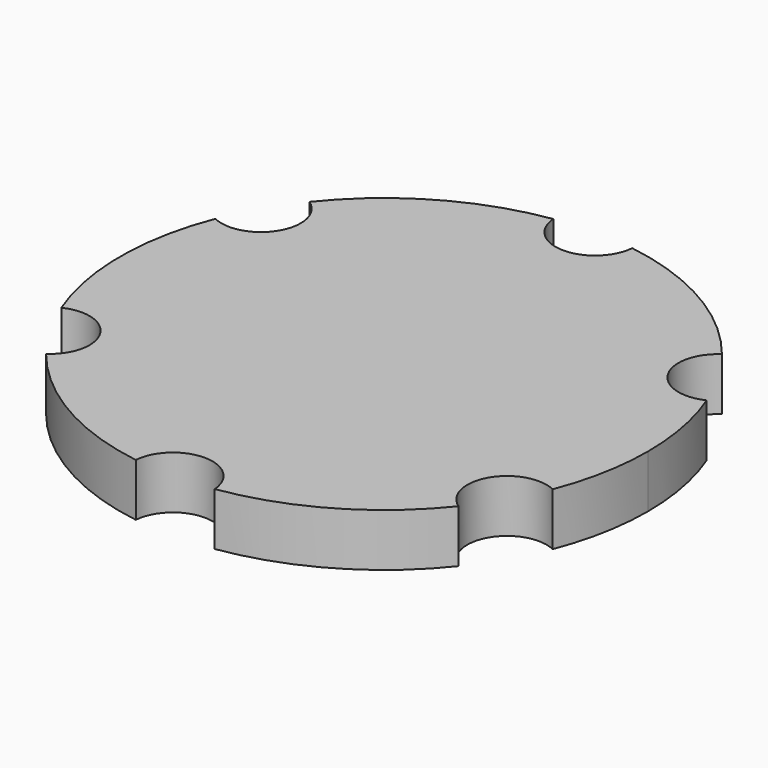
from build123d import *

# Parameters (mm, degrees)
F1_DEPTH = 10


with BuildPart() as f1:
    # F0 (on Top) → F1 (new body)
    with BuildSketch(Plane.XY):
        with BuildLine():
            ThreePointArc((46.5535691512, -18.2418529565), (49.1308378595, -9.2822826514), (50, 0))
            ThreePointArc((50, 0), (49.1308378595, 9.2822826514), (46.5535691512, 18.2418529565))
            ThreePointArc((46.5535691512, 18.2418529565), (36.8060796608, 21.25), (39.074692648, 31.1956470435))
            ThreePointArc((39.074692648, 31.1956470435), (25, 43.3012701892), (7.4788765032, 49.4375))
            ThreePointArc((7.4788765032, 49.4375), (0, 42.5), (-7.4788765032, 49.4375))
            ThreePointArc((-7.4788765032, 49.4375), (-25, 43.3012701892), (-39.074692648, 31.1956470435))
            ThreePointArc((-39.074692648, 31.1956470435), (-36.6699305222, 28.5036173051), (-35.8012701892, 25))
            ThreePointArc((-35.8012701892, 25), (-39.310170229, 18.6501085752), (-46.5535691512, 18.2418529565))
            ThreePointArc((-46.5535691512, 18.2418529565), (-50, 0), (-46.5535691512, -18.2418529565))
            ThreePointArc((-46.5535691512, -18.2418529565), (-39.310170229, -18.6501085752), (-35.8012701892, -25))
            ThreePointArc((-35.8012701892, -25), (-36.6699305222, -28.5036173051), (-39.074692648, -31.1956470435))
            ThreePointArc((-39.074692648, -31.1956470435), (-25, -43.3012701892), (-7.4788765032, -49.4375))
            ThreePointArc((-7.4788765032, -49.4375), (0, -42.5), (7.4788765032, -49.4375))
            ThreePointArc((7.4788765032, -49.4375), (25, -43.3012701892), (39.074692648, -31.1956470435))
            ThreePointArc((39.074692648, -31.1956470435), (36.8060796608, -21.25), (46.5535691512, -18.2418529565))
        make_face()
        with BuildLine():
            ThreePointArc((46.5535691512, -18.2418529565), (49.1308378595, -9.2822826514), (50, 0))
            ThreePointArc((50, 0), (49.1308378595, 9.2822826514), (46.5535691512, 18.2418529565))
            ThreePointArc((46.5535691512, 18.2418529565), (36.8060796608, 21.25), (39.074692648, 31.1956470435))
            ThreePointArc((39.074692648, 31.1956470435), (25, 43.3012701892), (7.4788765032, 49.4375))
            ThreePointArc((7.4788765032, 49.4375), (0, 42.5), (-7.4788765032, 49.4375))
            ThreePointArc((-7.4788765032, 49.4375), (-25, 43.3012701892), (-39.074692648, 31.1956470435))
            ThreePointArc((-39.074692648, 31.1956470435), (-36.6699305222, 28.5036173051), (-35.8012701892, 25))
            ThreePointArc((-35.8012701892, 25), (-39.310170229, 18.6501085752), (-46.5535691512, 18.2418529565))
            ThreePointArc((-46.5535691512, 18.2418529565), (-50, 0), (-46.5535691512, -18.2418529565))
            ThreePointArc((-46.5535691512, -18.2418529565), (-39.310170229, -18.6501085752), (-35.8012701892, -25))
            ThreePointArc((-35.8012701892, -25), (-36.6699305222, -28.5036173051), (-39.074692648, -31.1956470435))
            ThreePointArc((-39.074692648, -31.1956470435), (-25, -43.3012701892), (-7.4788765032, -49.4375))
            ThreePointArc((-7.4788765032, -49.4375), (0, -42.5), (7.4788765032, -49.4375))
            ThreePointArc((7.4788765032, -49.4375), (25, -43.3012701892), (39.074692648, -31.1956470435))
            ThreePointArc((39.074692648, -31.1956470435), (36.8060796608, -21.25), (46.5535691512, -18.2418529565))
        make_face()
        with BuildLine():
            ThreePointArc((46.5535691512, -18.2418529565), (49.1308378595, -9.2822826514), (50, 0))
            ThreePointArc((50, 0), (49.1308378595, 9.2822826514), (46.5535691512, 18.2418529565))
            ThreePointArc((46.5535691512, 18.2418529565), (36.8060796608, 21.25), (39.074692648, 31.1956470435))
            ThreePointArc((39.074692648, 31.1956470435), (25, 43.3012701892), (7.4788765032, 49.4375))
            ThreePointArc((7.4788765032, 49.4375), (0, 42.5), (-7.4788765032, 49.4375))
            ThreePointArc((-7.4788765032, 49.4375), (-25, 43.3012701892), (-39.074692648, 31.1956470435))
            ThreePointArc((-39.074692648, 31.1956470435), (-36.6699305222, 28.5036173051), (-35.8012701892, 25))
            ThreePointArc((-35.8012701892, 25), (-39.310170229, 18.6501085752), (-46.5535691512, 18.2418529565))
            ThreePointArc((-46.5535691512, 18.2418529565), (-50, 0), (-46.5535691512, -18.2418529565))
            ThreePointArc((-46.5535691512, -18.2418529565), (-39.310170229, -18.6501085752), (-35.8012701892, -25))
            ThreePointArc((-35.8012701892, -25), (-36.6699305222, -28.5036173051), (-39.074692648, -31.1956470435))
            ThreePointArc((-39.074692648, -31.1956470435), (-25, -43.3012701892), (-7.4788765032, -49.4375))
            ThreePointArc((-7.4788765032, -49.4375), (0, -42.5), (7.4788765032, -49.4375))
            ThreePointArc((7.4788765032, -49.4375), (25, -43.3012701892), (39.074692648, -31.1956470435))
            ThreePointArc((39.074692648, -31.1956470435), (36.8060796608, -21.25), (46.5535691512, -18.2418529565))
        make_face()
        with BuildLine():
            ThreePointArc((46.5535691512, -18.2418529565), (49.1308378595, -9.2822826514), (50, 0))
            ThreePointArc((50, 0), (49.1308378595, 9.2822826514), (46.5535691512, 18.2418529565))
            ThreePointArc((46.5535691512, 18.2418529565), (36.8060796608, 21.25), (39.074692648, 31.1956470435))
            ThreePointArc((39.074692648, 31.1956470435), (25, 43.3012701892), (7.4788765032, 49.4375))
            ThreePointArc((7.4788765032, 49.4375), (0, 42.5), (-7.4788765032, 49.4375))
            ThreePointArc((-7.4788765032, 49.4375), (-25, 43.3012701892), (-39.074692648, 31.1956470435))
            ThreePointArc((-39.074692648, 31.1956470435), (-36.6699305222, 28.5036173051), (-35.8012701892, 25))
            ThreePointArc((-35.8012701892, 25), (-39.310170229, 18.6501085752), (-46.5535691512, 18.2418529565))
            ThreePointArc((-46.5535691512, 18.2418529565), (-50, 0), (-46.5535691512, -18.2418529565))
            ThreePointArc((-46.5535691512, -18.2418529565), (-39.310170229, -18.6501085752), (-35.8012701892, -25))
            ThreePointArc((-35.8012701892, -25), (-36.6699305222, -28.5036173051), (-39.074692648, -31.1956470435))
            ThreePointArc((-39.074692648, -31.1956470435), (-25, -43.3012701892), (-7.4788765032, -49.4375))
            ThreePointArc((-7.4788765032, -49.4375), (0, -42.5), (7.4788765032, -49.4375))
            ThreePointArc((7.4788765032, -49.4375), (25, -43.3012701892), (39.074692648, -31.1956470435))
            ThreePointArc((39.074692648, -31.1956470435), (36.8060796608, -21.25), (46.5535691512, -18.2418529565))
        make_face()
        with BuildLine():
            ThreePointArc((46.5535691512, -18.2418529565), (49.1308378595, -9.2822826514), (50, 0))
            ThreePointArc((50, 0), (49.1308378595, 9.2822826514), (46.5535691512, 18.2418529565))
            ThreePointArc((46.5535691512, 18.2418529565), (36.8060796608, 21.25), (39.074692648, 31.1956470435))
            ThreePointArc((39.074692648, 31.1956470435), (25, 43.3012701892), (7.4788765032, 49.4375))
            ThreePointArc((7.4788765032, 49.4375), (0, 42.5), (-7.4788765032, 49.4375))
            ThreePointArc((-7.4788765032, 49.4375), (-25, 43.3012701892), (-39.074692648, 31.1956470435))
            ThreePointArc((-39.074692648, 31.1956470435), (-36.6699305222, 28.5036173051), (-35.8012701892, 25))
            ThreePointArc((-35.8012701892, 25), (-39.310170229, 18.6501085752), (-46.5535691512, 18.2418529565))
            ThreePointArc((-46.5535691512, 18.2418529565), (-50, 0), (-46.5535691512, -18.2418529565))
            ThreePointArc((-46.5535691512, -18.2418529565), (-39.310170229, -18.6501085752), (-35.8012701892, -25))
            ThreePointArc((-35.8012701892, -25), (-36.6699305222, -28.5036173051), (-39.074692648, -31.1956470435))
            ThreePointArc((-39.074692648, -31.1956470435), (-25, -43.3012701892), (-7.4788765032, -49.4375))
            ThreePointArc((-7.4788765032, -49.4375), (0, -42.5), (7.4788765032, -49.4375))
            ThreePointArc((7.4788765032, -49.4375), (25, -43.3012701892), (39.074692648, -31.1956470435))
            ThreePointArc((39.074692648, -31.1956470435), (36.8060796608, -21.25), (46.5535691512, -18.2418529565))
        make_face()
        with BuildLine():
            ThreePointArc((46.5535691512, -18.2418529565), (49.1308378595, -9.2822826514), (50, 0))
            ThreePointArc((50, 0), (49.1308378595, 9.2822826514), (46.5535691512, 18.2418529565))
            ThreePointArc((46.5535691512, 18.2418529565), (36.8060796608, 21.25), (39.074692648, 31.1956470435))
            ThreePointArc((39.074692648, 31.1956470435), (25, 43.3012701892), (7.4788765032, 49.4375))
            ThreePointArc((7.4788765032, 49.4375), (0, 42.5), (-7.4788765032, 49.4375))
            ThreePointArc((-7.4788765032, 49.4375), (-25, 43.3012701892), (-39.074692648, 31.1956470435))
            ThreePointArc((-39.074692648, 31.1956470435), (-36.6699305222, 28.5036173051), (-35.8012701892, 25))
            ThreePointArc((-35.8012701892, 25), (-39.310170229, 18.6501085752), (-46.5535691512, 18.2418529565))
            ThreePointArc((-46.5535691512, 18.2418529565), (-50, 0), (-46.5535691512, -18.2418529565))
            ThreePointArc((-46.5535691512, -18.2418529565), (-39.310170229, -18.6501085752), (-35.8012701892, -25))
            ThreePointArc((-35.8012701892, -25), (-36.6699305222, -28.5036173051), (-39.074692648, -31.1956470435))
            ThreePointArc((-39.074692648, -31.1956470435), (-25, -43.3012701892), (-7.4788765032, -49.4375))
            ThreePointArc((-7.4788765032, -49.4375), (0, -42.5), (7.4788765032, -49.4375))
            ThreePointArc((7.4788765032, -49.4375), (25, -43.3012701892), (39.074692648, -31.1956470435))
            ThreePointArc((39.074692648, -31.1956470435), (36.8060796608, -21.25), (46.5535691512, -18.2418529565))
        make_face()
    extrude(amount=F1_DEPTH)


solid = f1.part
